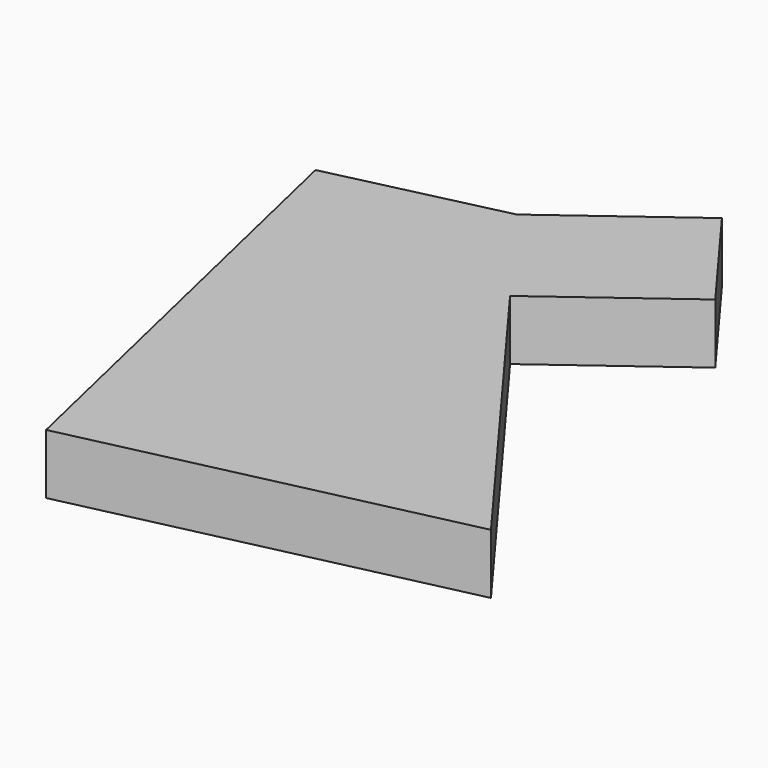
from build123d import *

# Parameters (mm, degrees)
F1_DEPTH = 25.4


with BuildPart() as f1:
    # F0 (on Top) → F1 (new body)
    with BuildSketch(Plane.XY):
        Polygon((-46.673708, 47.062084), (0, -153.88754), (159.577489, -117.894091), (59.887676, 16.840532), (25.178773, 63.750952), align=None)
        Polygon((79.754847, 104.131653), (25.178773, 63.750952), (59.887676, 16.840532), (114.46375, 57.221233), align=None)
    extrude(amount=F1_DEPTH)


solid = f1.part
